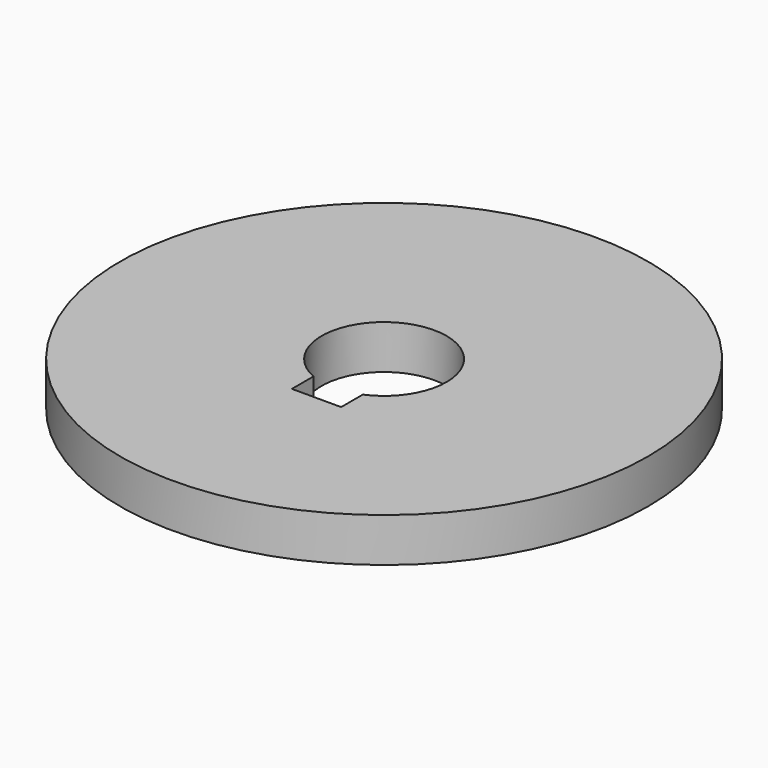
from build123d import *

# Parameters (mm, degrees)
F0_R     = 30
F1_DEPTH = 2.5


with BuildPart() as f1:
    # F0 (on Top) → F1 (new body, symmetric)
    with BuildSketch(Plane.XY):
        Circle(F0_R)
        with BuildLine():
            ThreePointArc((-2.8, -6.524569), (-3.907045, 5.928322), (7.1, 0))
            ThreePointArc((7.1, 0), (5.928322, -3.907045), (2.8, -6.524569))
            Line((2.8, -6.524569), (2.8, -9.6))
            Line((2.8, -9.6), (0, -9.6))
            Line((0, -9.6), (-2.8, -9.6))
            Line((-2.8, -9.6), (-2.8, -6.524569))
        make_face(mode=Mode.SUBTRACT)
    extrude(amount=F1_DEPTH, both=True)


solid = f1.part
